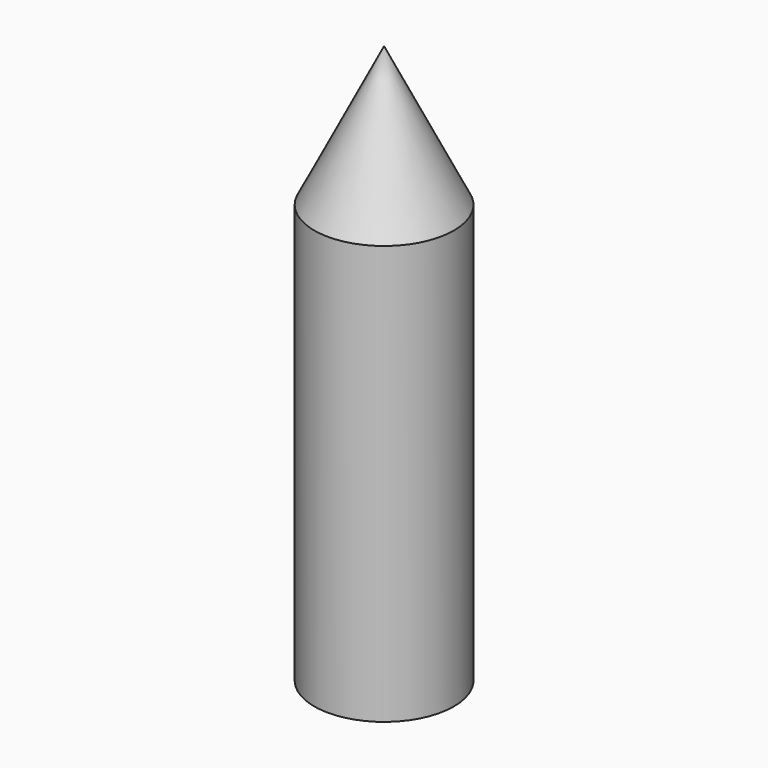
from build123d import *

# Parameters (mm, degrees)
F0_R     = 250
F1_DEPTH = 1500
F4_R     = 150
F5_DEPTH = 500


with BuildPart() as f1:
    # F0 (on Top) → F1 (new body)
    with BuildSketch(Plane.XY):
        Circle(F0_R)
    extrude(amount=F1_DEPTH)

    # F2 (on Front) → F3 (revolve)
    with BuildSketch(Plane.XZ):
        Polygon((0, 2000), (0, 1500), (250, 1500), align=None)
    revolve(axis=Axis((0, 0, 1750), (0, 0, 1)))

    # F4 (on face) → F5 (cut)
    with BuildSketch(Plane(origin=(0, 0, 0), x_dir=(1, 0, 0), z_dir=(0, 0, -1))):
        Circle(F4_R)
    extrude(amount=-F5_DEPTH, mode=Mode.SUBTRACT)


solid = f1.part
